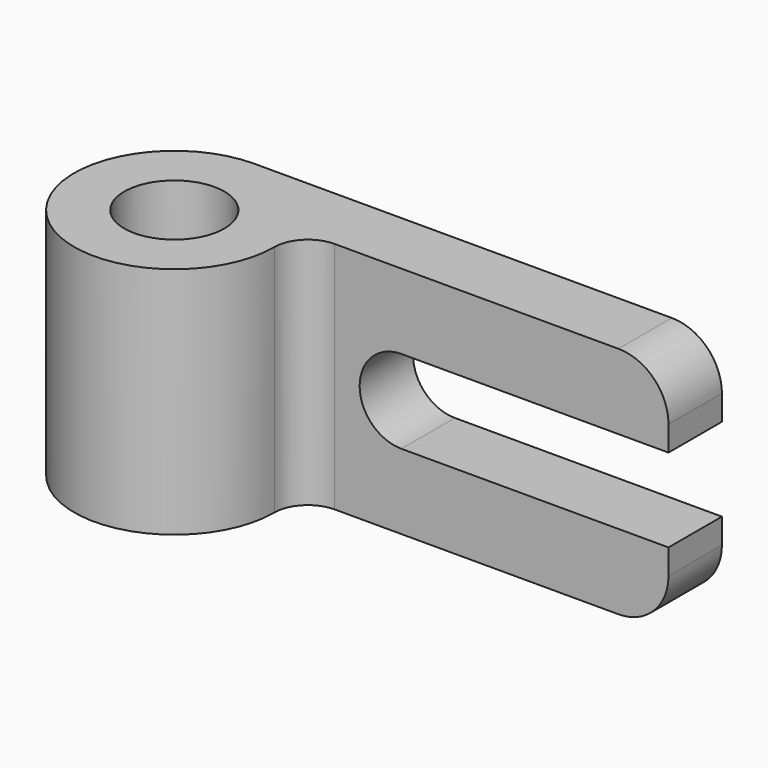
from build123d import *

# Parameters (mm, degrees)
F0_R     = 9.525
F1_DEPTH = 44.45
F3_DEPTH = 12.7


with BuildPart() as f1:
    # F0 (on Top) → F1 (new body)
    with BuildSketch(Plane.XY):
        with BuildLine():
            Line((38.1, 19.05), (0, 19.05))
            ThreePointArc((0, 19.05), (-13.470384, -13.470384), (19.05, 0))
            ThreePointArc((19.05, 0), (20.909872, 4.490128), (25.4, 6.35))
            Line((25.4, 6.35), (88.9, 6.35))
            Line((88.9, 6.35), (88.9, 19.05))
            Line((88.9, 19.05), (38.1, 19.05))
        make_face()
        Circle(F0_R, mode=Mode.SUBTRACT)
    extrude(amount=-F1_DEPTH)

    # F2 (on face) → F3 (cut)
    with BuildSketch(Plane.XZ.offset(-6.35)):
        with BuildLine():
            ThreePointArc((79.375, 0), (86.110192, -2.789808), (88.9, -9.525))
            Line((88.9, -9.525), (88.9, 0))
            Line((88.9, 0), (79.375, 0))
        make_face()
        with BuildLine():
            Line((38.1, -30.1625), (88.9, -30.1625))
            Line((88.9, -30.1625), (88.9, -22.225))
            Line((88.9, -22.225), (88.9, -14.2875))
            Line((88.9, -14.2875), (38.1, -14.2875))
            ThreePointArc((38.1, -14.2875), (30.1625, -22.225), (38.1, -30.1625))
        make_face()
        with BuildLine():
            Line((88.9, -37.3126), (88.9, -34.925))
            ThreePointArc((88.9, -34.925), (86.110192, -41.660192), (79.375, -44.45))
            Line((79.375, -44.45), (88.9, -44.45))
            Line((88.9, -44.45), (88.9, -37.3126))
        make_face()
    extrude(amount=-F3_DEPTH, mode=Mode.SUBTRACT)


solid = f1.part
